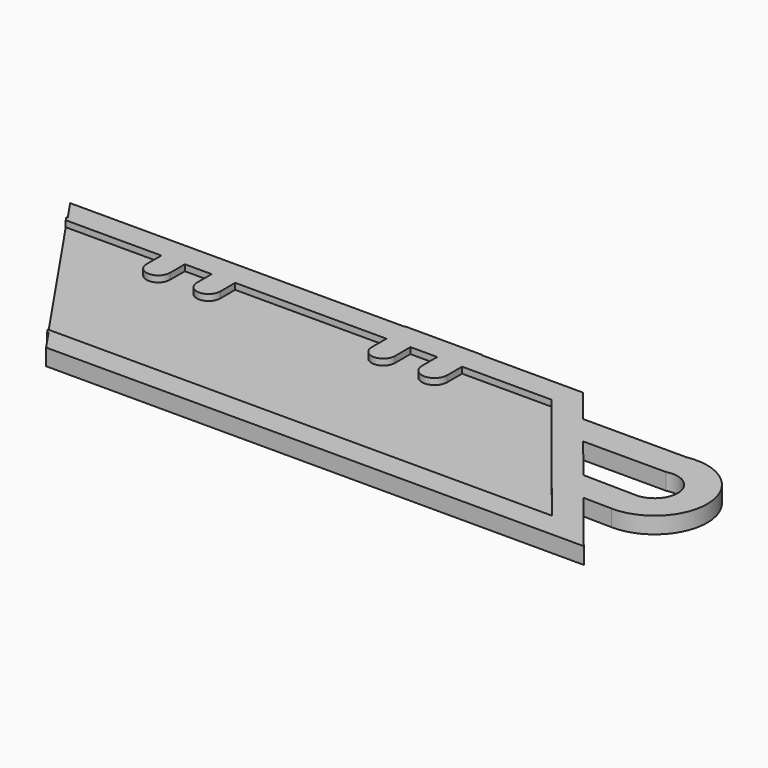
from build123d import *

# Parameters (mm, degrees)
F1_DEPTH = 1.27
F2_DEPTH = 0.762


with BuildPart() as f1:
    # F0 (on Top) → F1 (new body)
    with BuildSketch(Plane.XY):
        with BuildLine():
            Line((-13.686726, 19.222178), (-13.863507, 19.222178))
            Line((-13.863507, 19.222178), (-13.517431, 18.714178))
            Line((-13.517431, 18.714178), (-1.74056, 18.714178))
            Line((-1.74056, 18.714178), (-1.74056, 16.422391))
            ThreePointArc((-1.74056, 16.422391), (-0.29276, 14.974591), (1.15504, 16.422391))
            Line((1.15504, 16.422391), (1.15504, 18.714178))
            Line((1.15504, 18.714178), (4.457041, 18.714178))
            Line((4.457041, 18.714178), (4.457041, 16.422391))
            ThreePointArc((4.457041, 16.422391), (5.904841, 14.974591), (7.352641, 16.422391))
            Line((7.352641, 16.422391), (7.352641, 18.714178))
            Line((7.352641, 18.714178), (25.9842, 18.714178))
            Line((25.9842, 18.714178), (25.9842, 16.422391))
            ThreePointArc((25.9842, 16.422391), (27.432, 14.974591), (28.8798, 16.422391))
            Line((28.8798, 16.422391), (28.8798, 18.790378))
            Line((28.8798, 18.790378), (32.181801, 18.790378))
            Line((32.181801, 18.790378), (32.181801, 16.422391))
            ThreePointArc((32.181801, 16.422391), (33.7439, 14.860292), (35.305999, 16.422391))
            Line((35.305999, 16.422391), (35.305999, 18.714178))
            Line((35.305999, 18.714178), (46.286399, 18.714178))
            Line((46.286399, 18.714178), (61.438334, -0.127001))
            Line((61.438334, -0.127001), (0.270195, -0.127001))
            Line((0.270195, -0.127001), (-0.681832, -0.127001))
            Line((-0.681832, -0.127001), (-0.335756, -0.635))
            Line((-0.335756, -0.635), (-0.158975, -0.635))
            Line((-0.158975, -0.635), (1.571406, -3.175))
            Line((1.571406, -3.175), (67.80085, -3.175))
            Line((67.80085, -3.175), (61.482832, 4.681352))
            Line((61.482832, 4.681352), (65.00257, 4.618536))
            ThreePointArc((65.00257, 4.618536), (71.571922, 11.617995), (63.957053, 17.462872))
            Line((63.957053, 17.462872), (51.204029, 17.462872))
            Line((51.204029, 17.462872), (50.485753, 18.356037))
            Line((50.485753, 18.356037), (47.74656, 21.762177))
            Line((47.74656, 21.762177), (35.2298, 21.762177))
            Line((35.2298, 21.762177), (35.2298, 21.838377))
            Line((35.2298, 21.838377), (25.831801, 21.838377))
            Line((25.831801, 21.838377), (25.831801, 21.762177))
            Line((25.831801, 21.762177), (4.304642, 21.762177))
            Line((4.304642, 21.762177), (-1.892959, 21.762177))
            Line((-1.892959, 21.762177), (-15.417107, 21.762177))
            Line((-15.417107, 21.762177), (-13.686726, 19.222178))
        make_face()
        with BuildLine():
            Line((54.125017, 13.830672), (64.352805, 13.830672))
            ThreePointArc((64.352805, 13.830672), (67.938043, 11.453749), (65.067382, 8.250158))
            Line((65.067382, 8.250158), (62.344118, 8.298759))
            Line((62.344118, 8.298759), (61.547644, 8.312973))
            Line((61.547644, 8.312973), (58.518839, 8.367028))
            Line((58.518839, 8.367028), (54.125017, 13.830672))
        make_face(mode=Mode.SUBTRACT)
        with BuildLine():
            Line((-1.74056, 18.714178), (-13.517431, 18.714178))
            Line((-13.517431, 18.714178), (-0.681832, -0.127001))
            Line((-0.681832, -0.127001), (0.270195, -0.127001))
            Line((0.270195, -0.127001), (61.438334, -0.127001))
            Line((61.438334, -0.127001), (46.286399, 18.714178))
            Line((46.286399, 18.714178), (35.305999, 18.714178))
            Line((35.305999, 18.714178), (35.305999, 16.422391))
            ThreePointArc((35.305999, 16.422391), (33.7439, 14.860292), (32.181801, 16.422391))
            Line((32.181801, 16.422391), (32.181801, 18.790378))
            Line((32.181801, 18.790378), (28.8798, 18.790378))
            Line((28.8798, 18.790378), (28.8798, 16.422391))
            ThreePointArc((28.8798, 16.422391), (27.432, 14.974591), (25.9842, 16.422391))
            Line((25.9842, 16.422391), (25.9842, 18.714178))
            Line((25.9842, 18.714178), (7.352641, 18.714178))
            Line((7.352641, 18.714178), (7.352641, 16.422391))
            ThreePointArc((7.352641, 16.422391), (5.904841, 14.974591), (4.457041, 16.422391))
            Line((4.457041, 16.422391), (4.457041, 18.714178))
            Line((4.457041, 18.714178), (1.15504, 18.714178))
            Line((1.15504, 18.714178), (1.15504, 16.422391))
            ThreePointArc((1.15504, 16.422391), (-0.29276, 14.974591), (-1.74056, 16.422391))
            Line((-1.74056, 16.422391), (-1.74056, 18.714178))
        make_face()
    extrude(amount=-F1_DEPTH)

    # F0 (on Top) → F2 (join)
    with BuildSketch(Plane.XY):
        with BuildLine():
            Line((-13.686726, 19.222178), (-13.863507, 19.222178))
            Line((-13.863507, 19.222178), (-13.517431, 18.714178))
            Line((-13.517431, 18.714178), (-1.74056, 18.714178))
            Line((-1.74056, 18.714178), (-1.74056, 16.422391))
            ThreePointArc((-1.74056, 16.422391), (-0.29276, 14.974591), (1.15504, 16.422391))
            Line((1.15504, 16.422391), (1.15504, 18.714178))
            Line((1.15504, 18.714178), (4.457041, 18.714178))
            Line((4.457041, 18.714178), (4.457041, 16.422391))
            ThreePointArc((4.457041, 16.422391), (5.904841, 14.974591), (7.352641, 16.422391))
            Line((7.352641, 16.422391), (7.352641, 18.714178))
            Line((7.352641, 18.714178), (25.9842, 18.714178))
            Line((25.9842, 18.714178), (25.9842, 16.422391))
            ThreePointArc((25.9842, 16.422391), (27.432, 14.974591), (28.8798, 16.422391))
            Line((28.8798, 16.422391), (28.8798, 18.790378))
            Line((28.8798, 18.790378), (32.181801, 18.790378))
            Line((32.181801, 18.790378), (32.181801, 16.422391))
            ThreePointArc((32.181801, 16.422391), (33.7439, 14.860292), (35.305999, 16.422391))
            Line((35.305999, 16.422391), (35.305999, 18.714178))
            Line((35.305999, 18.714178), (46.286399, 18.714178))
            Line((46.286399, 18.714178), (61.438334, -0.127001))
            Line((61.438334, -0.127001), (0.270195, -0.127001))
            Line((0.270195, -0.127001), (-0.681832, -0.127001))
            Line((-0.681832, -0.127001), (-0.335756, -0.635))
            Line((-0.335756, -0.635), (-0.158975, -0.635))
            Line((-0.158975, -0.635), (1.571406, -3.175))
            Line((1.571406, -3.175), (67.80085, -3.175))
            Line((67.80085, -3.175), (61.482832, 4.681352))
            Line((61.482832, 4.681352), (65.00257, 4.618536))
            ThreePointArc((65.00257, 4.618536), (71.571922, 11.617995), (63.957053, 17.462872))
            Line((63.957053, 17.462872), (51.204029, 17.462872))
            Line((51.204029, 17.462872), (50.485753, 18.356037))
            Line((50.485753, 18.356037), (47.74656, 21.762177))
            Line((47.74656, 21.762177), (35.2298, 21.762177))
            Line((35.2298, 21.762177), (35.2298, 21.838377))
            Line((35.2298, 21.838377), (25.831801, 21.838377))
            Line((25.831801, 21.838377), (25.831801, 21.762177))
            Line((25.831801, 21.762177), (4.304642, 21.762177))
            Line((4.304642, 21.762177), (-1.892959, 21.762177))
            Line((-1.892959, 21.762177), (-15.417107, 21.762177))
            Line((-15.417107, 21.762177), (-13.686726, 19.222178))
        make_face()
        with BuildLine():
            Line((54.125017, 13.830672), (64.352805, 13.830672))
            ThreePointArc((64.352805, 13.830672), (67.938043, 11.453749), (65.067382, 8.250158))
            Line((65.067382, 8.250158), (62.344118, 8.298759))
            Line((62.344118, 8.298759), (61.547644, 8.312973))
            Line((61.547644, 8.312973), (58.518839, 8.367028))
            Line((58.518839, 8.367028), (54.125017, 13.830672))
        make_face(mode=Mode.SUBTRACT)
    extrude(amount=F2_DEPTH)


solid = f1.part
